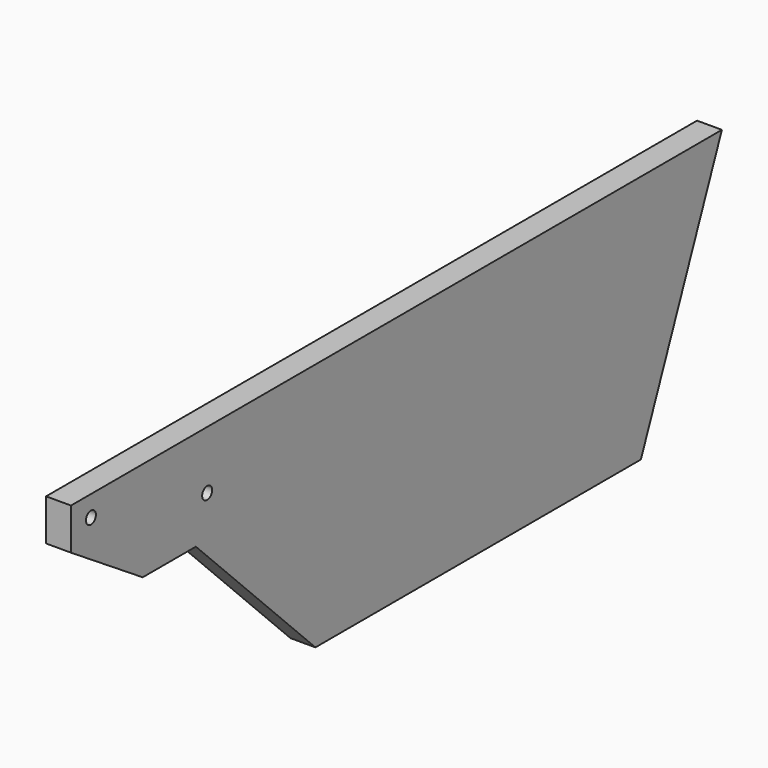
from build123d import *

# Parameters (mm, degrees)
F2_R     = 4.7625
F3_DEPTH = 19.05


with BuildPart() as f3:
    # F2 (on Right) → F3 (new body)
    with BuildSketch(Plane.YZ):
        Polygon((-612.14, 228.6), (-497.84, 114.3), (-186.69, 114.3), (-109.22, 304.8), (-731.52, 304.8), (-731.52, 273.05), (-662.94, 228.6), align=None)
        with Locations((-601.345, 260.35)):
            Circle(F2_R, mode=Mode.SUBTRACT)
        with Locations((-712.47, 288.925)):
            Circle(F2_R, mode=Mode.SUBTRACT)
    extrude(amount=F3_DEPTH)


solid = f3.part
